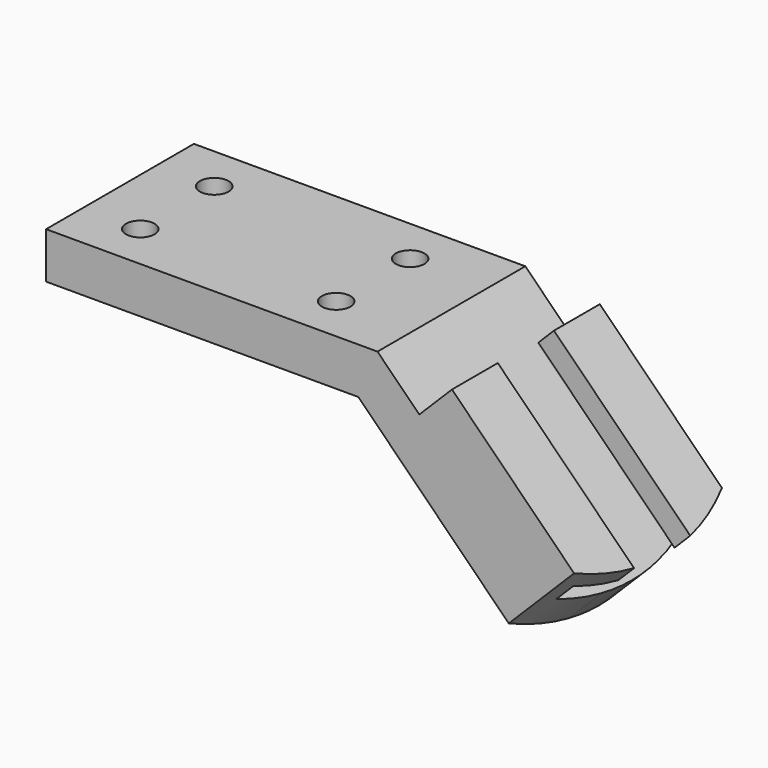
from build123d import *

# Parameters (mm, degrees)
F1_DEPTH       = 50.8
F3_D           = 7.874
F3_CBORE_D     = 12.7
F3_CBORE_DEPTH = 6.096
F4_D           = 7.874
F4_CBORE_D     = 12.7
F4_CBORE_DEPTH = 6.096
F6_DEPTH       = 53.848
F8_DEPTH       = 53.848
F10_DEPTH      = 25.4


with BuildPart() as f1:
    # F0 (on Front) → F1 (new body)
    with BuildSketch(Plane.XZ):
        Polygon((0, 12.7), (0, 0), (85.852, 0), (131.70327, -45.85127), (140.683526, -36.871014), (91.112512, 12.7), align=None)
    extrude(amount=F1_DEPTH)

    # F3 (through all)
    with Locations(Plane(origin=(0, 0, 0), x_dir=(1, 0, 0), z_dir=(0, 0, -1))):
        with Locations((15.748, 38.1)):
            CounterBoreHole(F3_D / 2, F3_CBORE_D / 2, F3_CBORE_DEPTH)

    # F4 (through all)
    with Locations(Plane(origin=(0, 0, 0), x_dir=(1, 0, 0), z_dir=(0, 0, -1))):
        with Locations((69.596, 38.1), (69.596, 12.7), (15.748, 12.7)):
            CounterBoreHole(F4_D / 2, F4_CBORE_D / 2, F4_CBORE_DEPTH)

    # F5 (on face) → F6 (join)
    with BuildSketch(Plane(origin=(88.77727, 0, -88.77727), x_dir=(0, 1, 0), z_dir=(0.707107, 0, -0.707107))):
        Polygon((-3.556, 73.406531), (0, 73.406531), (0, 86.106531), (-15.748, 86.106531), (-15.748, 80.010531), (-3.556, 80.010531), align=None)
    extrude(amount=-F6_DEPTH)

    # F7 (on face) → F8 (join)
    with BuildSketch(Plane(origin=(88.77727, 0, -88.77727), x_dir=(0, 1, 0), z_dir=(0.707107, 0, -0.707107))):
        Polygon((-50.8, 86.106531), (-50.8, 73.406531), (-47.244, 73.406531), (-47.244, 80.010531), (-35.052, 80.010531), (-35.052, 86.106531), align=None)
    extrude(amount=-F8_DEPTH)

    # F9 (on face) → F10 (cut)
    with BuildSketch(Plane(origin=(60.886512, 0, 60.886512), x_dir=(0.707107, 0, -0.707107), z_dir=(0.707107, 0, 0.707107))):
        with BuildLine():
            Line((125.550019, -35.052), (124.677919, -35.052))
            ThreePointArc((124.677919, -35.052), (122.543911, -43.140042), (119.183037, -50.8))
            Line((119.183037, -50.8), (125.550019, -50.8))
            Line((125.550019, -50.8), (125.550019, -35.052))
        make_face()
        with BuildLine():
            ThreePointArc((124.677919, -15.748), (125.331551, -20.554341), (125.550019, -25.4))
            Line((125.550019, -25.4), (125.550019, -15.748))
            Line((125.550019, -15.748), (124.677919, -15.748))
        make_face()
        with BuildLine():
            Line((125.550019, -35.052), (125.550019, -25.4))
            ThreePointArc((125.550019, -25.4), (125.331551, -30.245659), (124.677919, -35.052))
            Line((124.677919, -35.052), (125.550019, -35.052))
        make_face()
        with BuildLine():
            ThreePointArc((119.183037, 0), (122.543911, -7.659958), (124.677919, -15.748))
            Line((124.677919, -15.748), (125.550019, -15.748))
            Line((125.550019, -15.748), (125.550019, 0))
            Line((125.550019, 0), (119.183037, 0))
        make_face()
    extrude(amount=-F10_DEPTH, mode=Mode.SUBTRACT)


solid = f1.part
